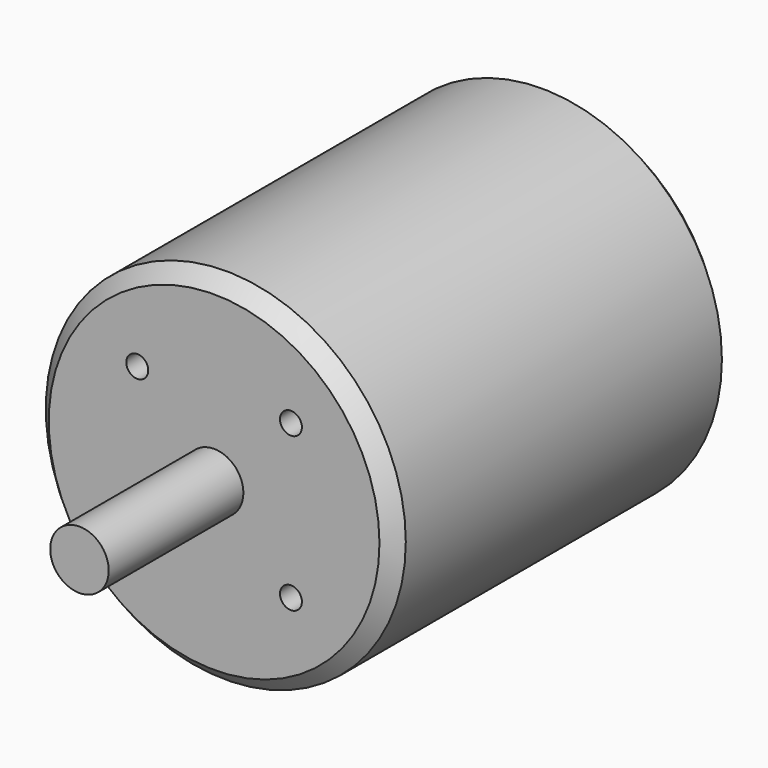
from build123d import *

# Parameters (mm, degrees)
F0_R     = 24.6
F1_DEPTH = 58
F2_R     = 4
F3_DEPTH = 23
F4_R     = 1.5
F5_DEPTH = 10
F6_SIZE  = 2
F7_R     = 1.25
F8_DEPTH = 4


with BuildPart() as f1:
    # F0 (on Front) → F1 (new body)
    with BuildSketch(Plane.XZ):
        Circle(F0_R)
    extrude(amount=F1_DEPTH)

    # F4 (on face) → F5 (cut)
    with BuildSketch(Plane.XZ.offset(58)):
        with Locations((10.5, 10.5)):
            Circle(F4_R)
        with Locations((10.5, -10.5)):
            Circle(F4_R)
        with Locations((-10.5, -10.5)):
            Circle(F4_R)
        with Locations((-10.5, 10.5)):
            Circle(F4_R)
    extrude(amount=-F5_DEPTH, mode=Mode.SUBTRACT)

    # F6
    f6_edges = [f1.edges().sort_by_distance(p)[0] for p in [
        (-24.6, 0, 0),
        (-24.6, -58, 0),
    ]]
    chamfer(f6_edges, length=F6_SIZE)


with BuildPart() as f3:
    # F2 (on face) → F3 (new body)
    with BuildSketch(Plane.XZ.offset(58)):
        Circle(F2_R)
    extrude(amount=F3_DEPTH)

    # F7 (on Top) → F8 (cut)
    with BuildSketch(Plane.XY):
        with Locations((0, -70.75)):
            Circle(F7_R)
    extrude(amount=-F8_DEPTH, mode=Mode.SUBTRACT)


solid = Compound([f1.part, f3.part])
